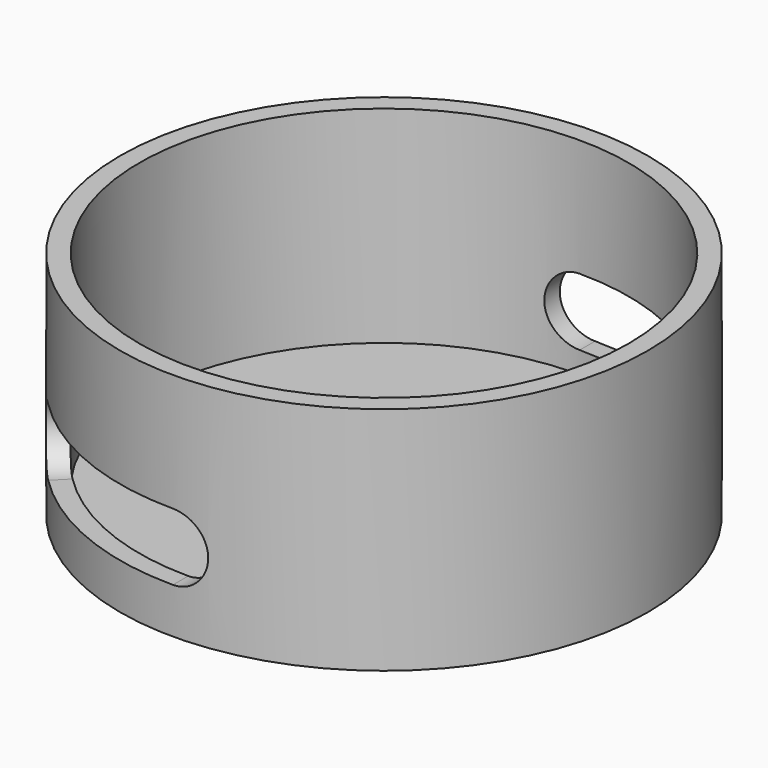
from build123d import *

# Parameters (mm, degrees)
F0_R      = 11
F1_DEPTH  = 9.6
F2_R      = 10.2
F3_DEPTH  = 8.6
F4_R      = 1.4
F5_DEPTH  = 12.5
F8_R      = 1.4
F9_DEPTH  = 12.5
F12_DEPTH = 2.8
F13_R     = 3.5
F14_DEPTH = 1


with BuildPart() as f1:
    # F0 (on Top) → F1 (new body)
    with BuildSketch(Plane.XY):
        Circle(F0_R)
    extrude(amount=F1_DEPTH)

    # F2 (on face) → F3 (cut)
    with BuildSketch(Plane.XY.offset(9.6)):
        Circle(F2_R)
    extrude(amount=-F3_DEPTH, mode=Mode.SUBTRACT)

    # F4 (on Front) → F5 (cut, symmetric)
    with BuildSketch(Plane.XZ):
        with Locations((0, 3.3)):
            Circle(F4_R)
    extrude(amount=F5_DEPTH, both=True, mode=Mode.SUBTRACT)

    # F8 (on line) → F9 (cut, symmetric)
    with BuildSketch(Plane(origin=(0, 0, 0), x_dir=(-0.7071067812, 0.7071067812, 0), z_dir=(0.7071067812, 0.7071067812, 0))):
        with Locations((0, 3.3)):
            Circle(F8_R)
    extrude(amount=F9_DEPTH, both=True, mode=Mode.SUBTRACT)

    # F11 (on offset) → F12 (cut)
    with BuildSketch(Plane.XY.offset(1.9)):
        Polygon((0, 13.7625831805), (0, 0), (9.7316158935, 9.7316158935), align=None)
        Polygon((0, -13.7625831805), (0, 0), (-9.7316158935, -9.7316158935), align=None)
    extrude(amount=F12_DEPTH, mode=Mode.SUBTRACT)

    # F13 (on face) → F14 (cut, through all)
    with BuildSketch(Plane.XY.offset(1)):
        Circle(F13_R)
    extrude(amount=-F14_DEPTH, mode=Mode.SUBTRACT)


solid = f1.part
